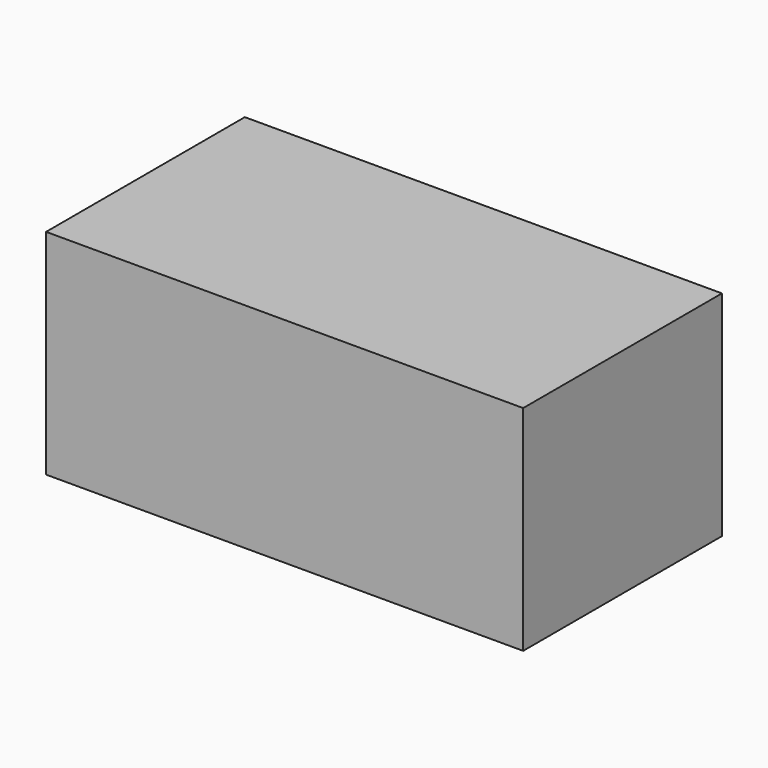
from build123d import *

# Parameters (mm, degrees)
F0_W     = 56.6947162151
F0_H     = 29.5215109363
F1_DEPTH = 25.4
F2_T     = -2


with BuildPart() as f1:
    # F0 (on Top) → F1 (new body)
    with BuildSketch(Plane.XY):
        with Locations((3.354717046, -1.845094841)):
            Rectangle(F0_W, F0_H)
    extrude(amount=F1_DEPTH)

    # F2 (hollow: no face is removed)
    offset(amount=F2_T, mode=Mode.SUBTRACT)


solid = f1.part
